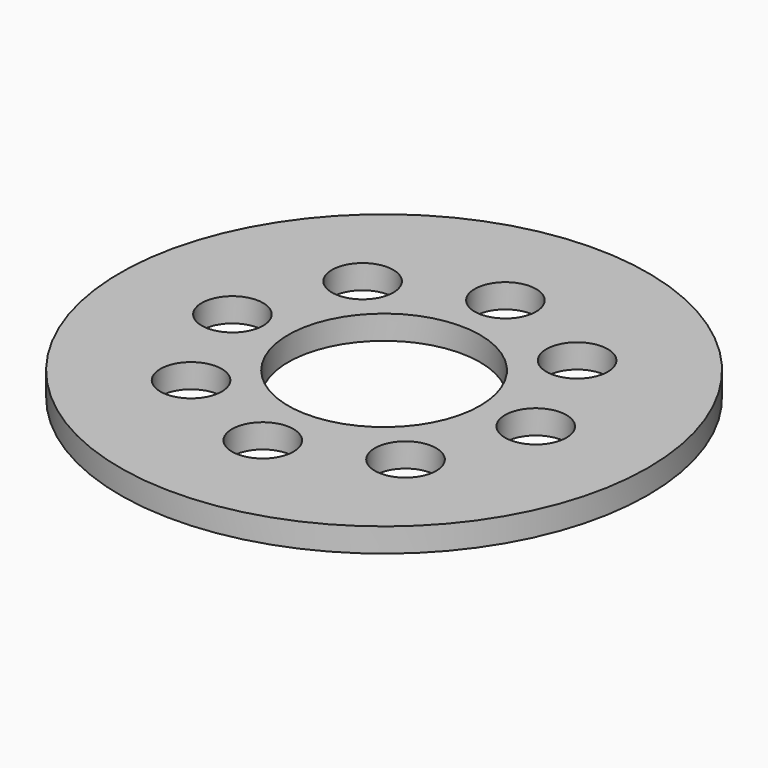
from build123d import *

# Parameters (mm, degrees)
F0_R     = 34.925
F0_R_2   = 4.064
F0_R_3   = 12.7
F1_DEPTH = 3.175


with BuildPart() as f1:
    # F0 (on Top) → F1 (new body)
    with BuildSketch(Plane.XY):
        Circle(F0_R)
        with Locations((-14.188805, -14.188805)):
            Circle(F0_R_2, mode=Mode.SUBTRACT)
        with Locations((0, -20.066)):
            Circle(F0_R_2, mode=Mode.SUBTRACT)
        with Locations((14.188805, -14.188805)):
            Circle(F0_R_2, mode=Mode.SUBTRACT)
        with Locations((-20.066, 0)):
            Circle(F0_R_2, mode=Mode.SUBTRACT)
        with Locations((-14.188805, 14.188805)):
            Circle(F0_R_2, mode=Mode.SUBTRACT)
        Circle(F0_R_3, mode=Mode.SUBTRACT)
        with Locations((14.188805, 14.188805)):
            Circle(F0_R_2, mode=Mode.SUBTRACT)
        with Locations((20.066, 0)):
            Circle(F0_R_2, mode=Mode.SUBTRACT)
        with Locations((0, 20.066)):
            Circle(F0_R_2, mode=Mode.SUBTRACT)
    extrude(amount=F1_DEPTH)


solid = f1.part
